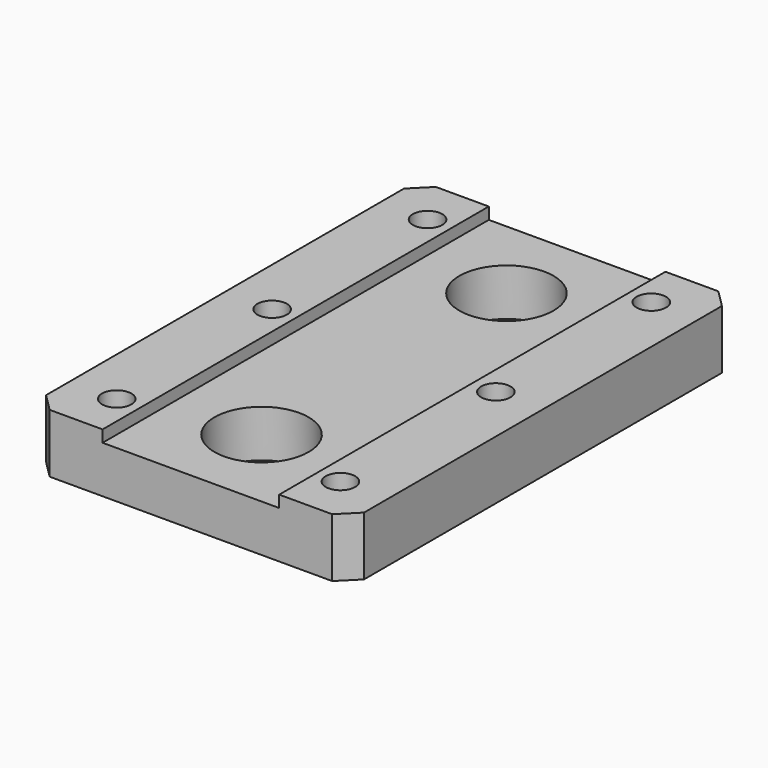
from build123d import *

# Parameters (mm, degrees)
F0_W     = 54
F0_H     = 82
F0_R     = 2.5
F0_R_2   = 8
F1_DEPTH = 10
F2_SIZE  = 3
F3_W     = 30
F3_H     = 82
F4_DEPTH = 2


with BuildPart() as f1:
    # F0 (on Top) → F1 (new body)
    with BuildSketch(Plane.XY):
        Rectangle(F0_W, F0_H)
        with Locations((-19, -33)):
            Circle(F0_R, mode=Mode.SUBTRACT)
        with Locations((0, -26)):
            Circle(F0_R_2, mode=Mode.SUBTRACT)
        with Locations((19, -33)):
            Circle(F0_R, mode=Mode.SUBTRACT)
        with Locations((-19, 0)):
            Circle(F0_R, mode=Mode.SUBTRACT)
        with Locations((-19, 33)):
            Circle(F0_R, mode=Mode.SUBTRACT)
        with Locations((19, 0)):
            Circle(F0_R, mode=Mode.SUBTRACT)
        with Locations((0, 26)):
            Circle(F0_R_2, mode=Mode.SUBTRACT)
        with Locations((19, 33)):
            Circle(F0_R, mode=Mode.SUBTRACT)
    extrude(amount=F1_DEPTH)

    # F2
    f2_edges = [f1.edges().sort_by_distance(p)[0] for p in [
        (27, -41, 5),
        (-27, -41, 5),
        (27, 41, 5),
        (-27, 41, 5),
    ]]
    chamfer(f2_edges, length=F2_SIZE)

    # F3 (on face) → F4 (cut)
    with BuildSketch(Plane.XY.offset(10)):
        Rectangle(F3_W, F3_H)
    extrude(amount=-F4_DEPTH, mode=Mode.SUBTRACT)


solid = f1.part
